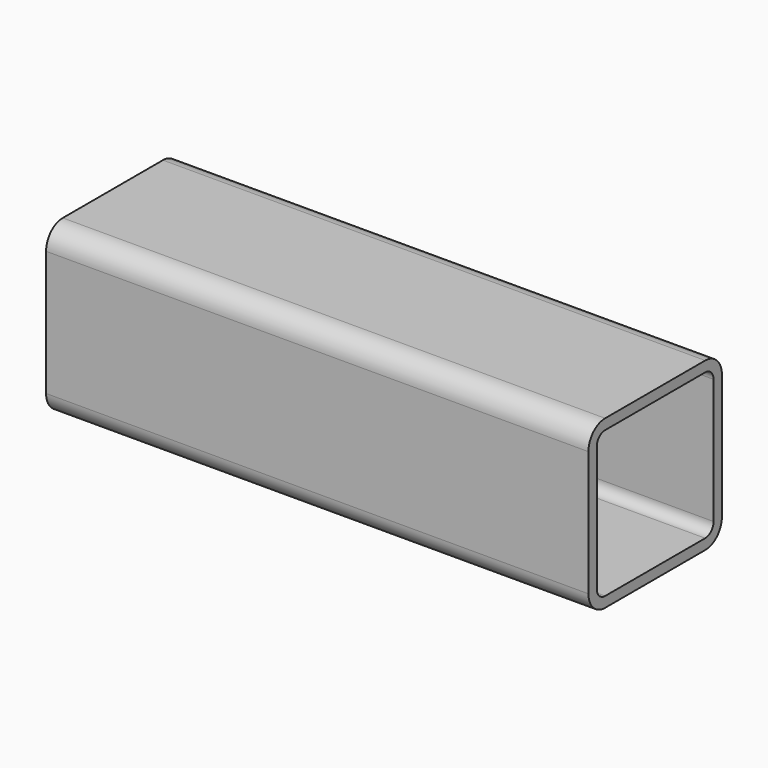
from build123d import *

# Parameters (mm, degrees)
F1_DEPTH = 130


with BuildPart() as f1:
    # F0 (on Right) → F1 (new body, symmetric)
    with BuildSketch(Plane.YZ):
        with BuildLine():
            ThreePointArc((40, 30), (37.071068, 37.071068), (30, 40))
            Line((30, 40), (-30, 40))
            ThreePointArc((-30, 40), (-37.071068, 37.071068), (-40, 30))
            Line((-40, 30), (-40, -30))
            ThreePointArc((-40, -30), (-37.071068, -37.071068), (-30, -40))
            Line((-30, -40), (30, -40))
            ThreePointArc((30, -40), (37.071068, -37.071068), (40, -30))
            Line((40, -30), (40, 30))
        make_face()
        with BuildLine():
            ThreePointArc((30, 35), (33.535534, 33.535534), (35, 30))
            Line((35, 30), (35, -30))
            ThreePointArc((35, -30), (33.535534, -33.535534), (30, -35))
            Line((30, -35), (-30, -35))
            ThreePointArc((-30, -35), (-33.535534, -33.535534), (-35, -30))
            Line((-35, -30), (-35, 30))
            ThreePointArc((-35, 30), (-33.535534, 33.535534), (-30, 35))
            Line((-30, 35), (30, 35))
        make_face(mode=Mode.SUBTRACT)
    extrude(amount=F1_DEPTH, both=True)


solid = f1.part
